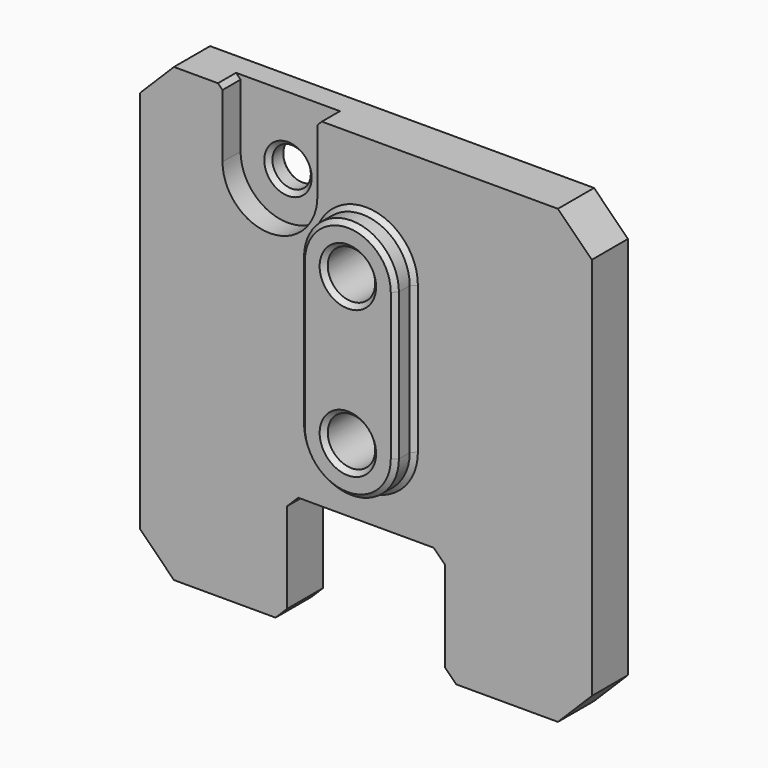
from build123d import *

# Parameters (mm, degrees)
SKETCH120_W     = 40
SKETCH120_H     = 40
SKETCH120_R     = 1.7
SKETCH120_R_2   = 2.1
PAD062_DEPTH    = 6
CHAMFER017_SIZE = 3
POCKET021_DEPTH = 4
SKETCH122_W     = 44.906031
SKETCH122_H     = 45.853912
POCKET022_DEPTH = 2
CHAMFER018_SIZE = 0.4
SKETCH123_W     = 14
SKETCH123_H     = 10
POCKET023_DEPTH = 6.001
CHAMFER019_SIZE = 1


with BuildPart() as part:
    # Sketch120 → Pad062 (new body)
    with BuildSketch(Plane.XZ):
        with Locations((0, 20)):
            Rectangle(SKETCH120_W, SKETCH120_H)
        with Locations((-8.5, 34)):
            Circle(SKETCH120_R, mode=Mode.SUBTRACT)
        with Locations((0, 30)):
            Circle(SKETCH120_R_2, mode=Mode.SUBTRACT)
        with Locations((0, 17)):
            Circle(SKETCH120_R_2, mode=Mode.SUBTRACT)
    extrude(amount=PAD062_DEPTH)

    # Chamfer017
    chamfer017_edges = [part.edges().sort_by_distance(p)[0] for p in [
        (-20, -3, 40),
        (20, -3, 40),
        (20, -3, 0),
        (-20, -3, 0),
    ]]
    chamfer(chamfer017_edges, length=CHAMFER017_SIZE)

    # Sketch121 (on Face5 of Chamfer017) → Pocket021 (cut)
    with BuildSketch(Plane.XZ.offset(6)):
        with BuildLine():
            ThreePointArc((-12.7, 34), (-8.5, 29.8), (-4.3, 34))
            Line((-4.3, 34), (-4.3, 40))
            ThreePointArc((-4.3, 40), (-8.5, 44.2), (-12.7, 40))
            Line((-12.7, 40), (-12.7, 34))
        make_face()
    extrude(amount=-POCKET021_DEPTH, mode=Mode.SUBTRACT)

    # Sketch122 (on Face5 of Pocket021) → Pocket022 (cut)
    with BuildSketch(Plane.XZ.offset(6)):
        with Locations((-0.23733, 20.575699)):
            Rectangle(SKETCH122_W, SKETCH122_H)
        with BuildLine():
            ThreePointArc((4.2, 30), (0, 34.2), (-4.2, 30))
            Line((-4.2, 30), (-4.2, 17))
            ThreePointArc((-4.2, 17), (0, 12.8), (4.2, 17))
            Line((4.2, 17), (4.2, 30))
        make_face(mode=Mode.SUBTRACT)
    extrude(amount=-POCKET022_DEPTH, mode=Mode.SUBTRACT)

    # Chamfer018
    chamfer018_edges = [part.edges().sort_by_distance(p)[0] for p in [
        (-10.2, -2, 34),
        (-2.1, -6, 30),
        (-2.1, -6, 17),
        (-2.1, 0, 17),
        (-2.1, 0, 30),
        (-10.2, 0, 34),
        (0, -6, 34.2),
        (0, -4, 34.2),
        (-4.3, -3, 40),
        (-12.7, -3, 40),
    ]]
    chamfer(chamfer018_edges, length=CHAMFER018_SIZE)

    # Sketch123 → Pocket023 (cut, through all)
    with BuildSketch(Plane.XZ):
        with Locations((0, 5)):
            Rectangle(SKETCH123_W, SKETCH123_H)
    extrude(amount=POCKET023_DEPTH, mode=Mode.SUBTRACT)

    # Chamfer019
    chamfer019_edges = [part.edges().sort_by_distance(p)[0] for p in [
        (7, -2, 10),
        (-7, -2, 10),
        (7, -2, 0),
        (-7, -2, 0),
    ]]
    chamfer(chamfer019_edges, length=CHAMFER019_SIZE)


with BuildPart() as part_1:
    # Body053 placement: moved
    add(part.part.moved(Location((0, -3, 192))))


solid = part_1.part
